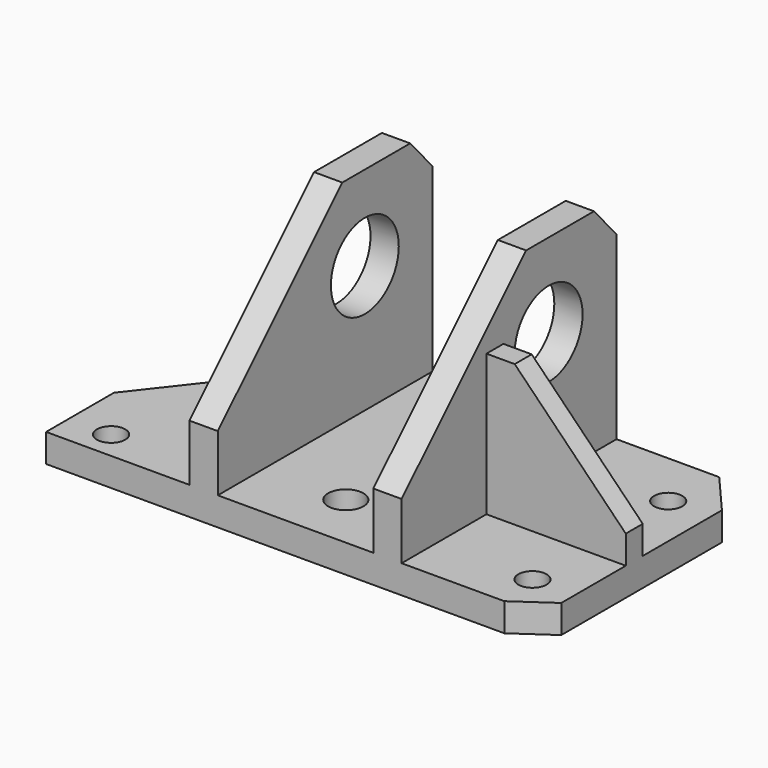
from build123d import *

# Parameters (mm, degrees)
F0_R     = 6.35
F1_DEPTH = 12.7
F0_W     = 69.85
F0_H     = 120.65
F0_R_2   = 7.9375
F0_W_2   = 12.7
F2_DEPTH = 107.95
F0_W_3   = 62.5805897668
F0_H_2   = 9.525
F3_DEPTH = 76.2
F5_DEPTH = 25.4
F6_R     = 19.05
F7_DEPTH = 159.6704102332


with BuildPart() as f1:
    # F0 (on Top) → F1 (new body)
    with BuildSketch(Plane.XY):
        Polygon((91.5022938823, 120.65), (45.3694102332, 120.65), (45.3694102332, 57.15), (107.95, 57.15), (107.95, 101.6), align=None)
        with Locations((88.9, 95.25)):
            Circle(F0_R, mode=Mode.SUBTRACT)
    extrude(amount=F1_DEPTH)



with BuildPart() as f1b:
    # F0 (on Top) → F1, piece 2 (new body)
    with BuildSketch(Plane.XY):
        Polygon((45.3694102332, 47.625), (45.3694102332, 0), (91.5022938823, 0), (107.95, 11.4125879677), (107.95, 47.625), align=None)
        with Locations((88.9, 19.05)):
            Circle(F0_R, mode=Mode.SUBTRACT)
    extrude(amount=F1_DEPTH)


with BuildPart() as f1c:
    # F0 (on Top) → F1, piece 3 (new body)
    with BuildSketch(Plane.XY):
        with Locations((-2.2555897668, 60.325)):
            Rectangle(F0_W, F0_H)
        with Locations((0, 25.4)):
            Circle(F0_R_2, mode=Mode.SUBTRACT)
        with Locations((0, 101.6)):
            Circle(F0_R_2, mode=Mode.SUBTRACT)
    extrude(amount=F1_DEPTH)


with BuildPart() as f1d:
    # F0 (on Top) → F1, piece 4 (new body)
    with BuildSketch(Plane.XY):
        Polygon((-114.3, 0), (-91.3736136669, 0), (-49.8805897668, 0), (-49.8805897668, 120.65), (-114.3, 38.1), align=None)
        with Locations((-95.25, 12.7)):
            Circle(F0_R, mode=Mode.SUBTRACT)
    extrude(amount=F1_DEPTH)


with BuildPart() as f1_1:
    add(f1.part)

    add(f1b.part)  # F2 merges F1b

    add(f1c.part)  # F2 merges F1c

    add(f1d.part)  # F2 merges F1d
    # F0 (on Top) → F2 (join)
    with BuildSketch(Plane.XY):
        with Locations((-43.5305897668, 60.325)):
            Rectangle(F0_W_2, F0_H)
        Polygon((32.6694102332, 120.65), (32.6694102332, 0), (45.3694102332, 0), (45.3694102332, 47.625), (45.3694102332, 57.15), (45.3694102332, 120.65), align=None)
    extrude(amount=F2_DEPTH)

    # F0 (on Top) → F3 (join)
    with BuildSketch(Plane.XY):
        with Locations((76.6597051166, 52.3875)):
            Rectangle(F0_W_3, F0_H_2)
    extrude(amount=F3_DEPTH)

    # F4 (on face) → F5 (cut)
    with BuildSketch(Plane(origin=(0, 57.15, 0), x_dir=(-1, 0, 0), z_dir=(0, 1, 0))):
        Polygon((-107.95, 76.2), (-107.95, 25.4), (-58.0694102332, 76.2), align=None)
    extrude(amount=-F5_DEPTH, mode=Mode.SUBTRACT)

    # F6 (on face) → F7 (cut, through all)
    with BuildSketch(Plane.YZ.offset(45.3694102332)):
        Polygon((0, 107.95), (0, 38.1), (69.9122603316, 107.95), align=None)
        Polygon((120.65, 107.95), (108.0122603316, 107.95), (120.65, 93.6955257524), align=None)
        with Locations((82.55, 69.85)):
            Circle(F6_R)
    extrude(amount=-F7_DEPTH, mode=Mode.SUBTRACT)


solid = f1_1.part
